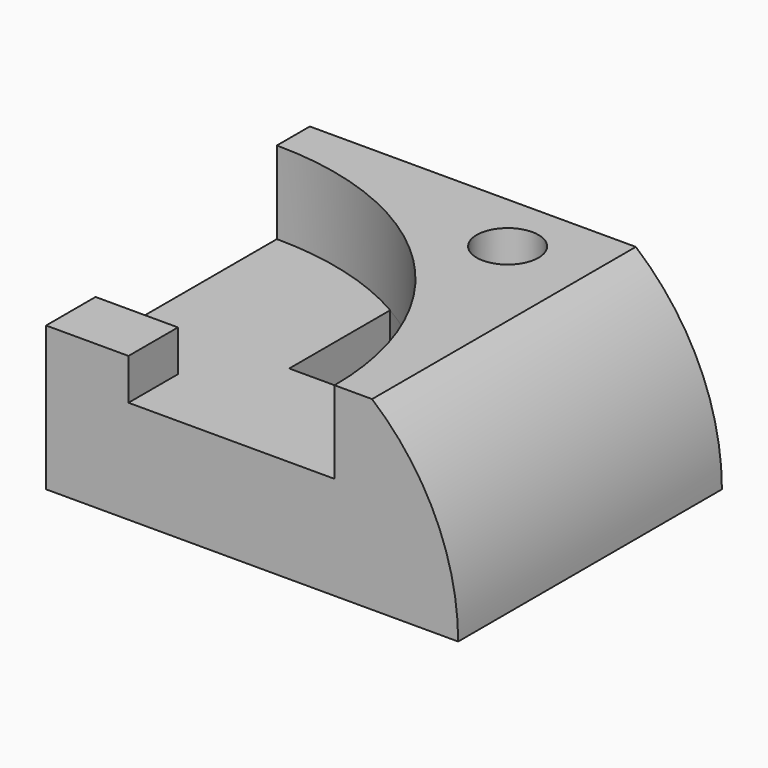
from build123d import *

# Parameters (mm, degrees)
F0_W      = 100
F0_H      = 80
F1_DEPTH  = 45
F5_R      = 7.5
F6_DEPTH  = 30
F8_DEPTH  = 80.001
F9_R      = 70
F10_DEPTH = 20
F11_W     = 20
F11_H     = 15
F12_DEPTH = 10
F14_DEPTH = 25.001


with BuildPart() as f1:
    # F0 (on Top) → F1 (new body)
    with BuildSketch(Plane.XY):
        with Locations((50, 40)):
            Rectangle(F0_W, F0_H)
    extrude(amount=F1_DEPTH)

    # F5 (on face) → F6 (cut, through all)
    with BuildSketch(Plane.XY.offset(45)):
        with Locations((60, 65)):
            Circle(F5_R)
    extrude(amount=-F6_DEPTH, mode=Mode.SUBTRACT)

    # F7 (on face) → F8 (cut, through all)
    with BuildSketch(Plane.XZ):
        with BuildLine():
            ThreePointArc((79.1062268166, 45), (94.5218269018, 24.8070038388), (100, 0))
            Line((100, 0), (100, 45))
            Line((100, 45), (79.1062268166, 45))
        make_face()
    extrude(amount=-F8_DEPTH, mode=Mode.SUBTRACT)

    # F9 (on face) → F10 (cut, through all)
    with BuildSketch(Plane.XY.offset(45)):
        Circle(F9_R)
    extrude(amount=-F10_DEPTH, mode=Mode.SUBTRACT)

    # F11 (on face) → F12 (join, through all)
    with BuildSketch(Plane.XY.offset(25)):
        with Locations((10, 7.5)):
            Rectangle(F11_W, F11_H)
    extrude(amount=F12_DEPTH)

    # F13 (on face) → F14 (cut, through all)
    with BuildSketch(Plane.XY.offset(25)):
        with BuildLine():
            Line((35, 30), (63.2455532034, 30))
            ThreePointArc((63.2455532034, 30), (51.4535762322, 47.4608206094), (35, 60.6217782649))
            Line((35, 60.6217782649), (35, 30))
        make_face()
    extrude(amount=-F14_DEPTH, mode=Mode.SUBTRACT)


solid = f1.part
